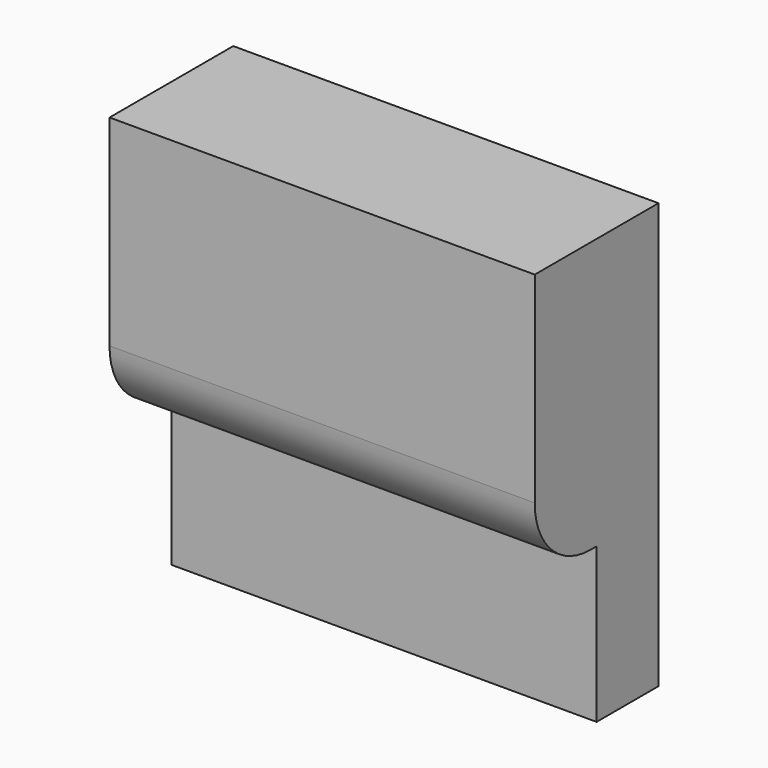
from build123d import *

# Parameters (mm, degrees)
BOX019_W     = 5.5
BOX019_H     = 1
BOX019_DEPTH = 2
BOX018_W     = 5.5
BOX018_H     = 2
BOX018_DEPTH = 5.5
FILLET003_R  = 0.9


with BuildPart() as button_1_cut001:
    # Box019 → Box019 (new body)
    with BuildSketch(Plane(origin=(5, 24, -15), x_dir=(1, 0, 0), z_dir=(0, 0, 1))):
        with Locations((2.75, 0.5)):
            Rectangle(BOX019_W, BOX019_H)
    extrude(amount=BOX019_DEPTH)


with BuildPart() as fillet003:
    # Box018 → Box018 (new body)
    with BuildSketch(Plane(origin=(5, 24, -15), x_dir=(1, 0, 0), z_dir=(0, 0, 1))):
        with Locations((2.75, 1)):
            Rectangle(BOX018_W, BOX018_H)
    extrude(amount=BOX018_DEPTH)

    # Cut001: cut Button 1 Cut001
    add(button_1_cut001.part, mode=Mode.SUBTRACT)

    # Fillet003
    fillet003_edges = [fillet003.edges().sort_by_distance(p)[0] for p in [
        (7.75, 24, -13),
    ]]
    fillet(fillet003_edges, radius=FILLET003_R)


with BuildPart() as fillet003_1:
    # Fillet003 placement: moved
    add(fillet003.part.moved(Location((-7, 0, 0))))


solid = fillet003_1.part
